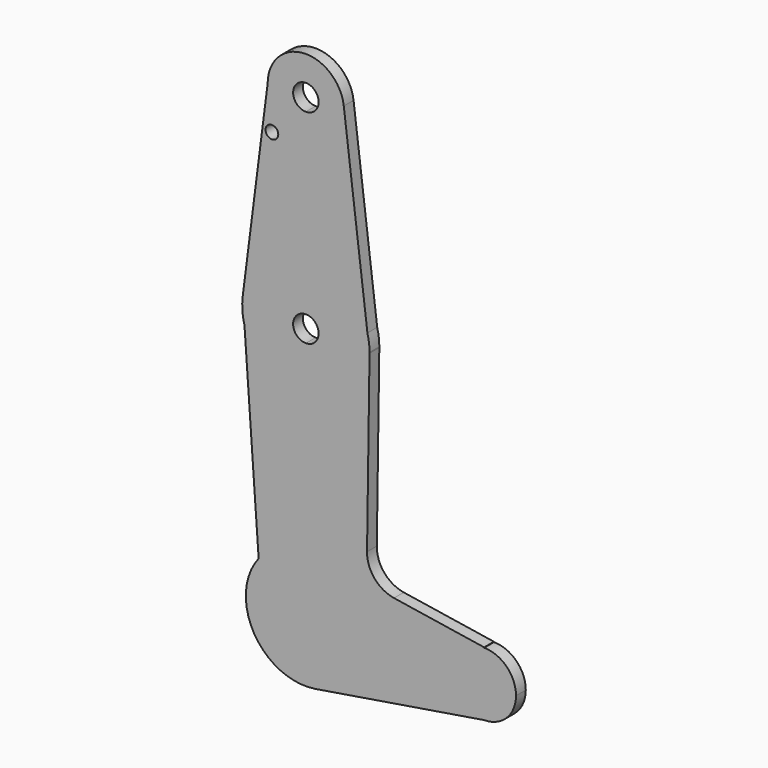
from build123d import *

# Parameters (mm, degrees)
F0_R     = 1.5875
F1_DEPTH = 3.048


with BuildPart() as f1:
    # F0 (on Front) → F1 (new body)
    with BuildSketch(Plane.XZ):
        with BuildLine():
            ThreePointArc((-11.7764620268, 9.2397838265), (-6.5479819224, 13.4604084549), (0, 14.968589213))
            Line((0, 14.968589213), (0, 47.625))
            ThreePointArc((0, 47.625), (-9.6265272558, 50.8767833738), (-15.3093214373, 59.2999640324))
            Line((-15.3093214373, 59.2999640324), (-11.7764620268, 9.2397838265))
        make_face()
        with BuildLine():
            Line((0, 47.625), (0, 14.968589213))
            ThreePointArc((0, 14.968589213), (10.5843909373, 10.5843909373), (14.968589213, 0))
            ThreePointArc((14.968589213, 0), (11.4021679923, -9.6978981281), (2.4023778267, -14.7745471608))
            Line((2.4023778267, -14.7745471608), (44.45, -7.9375))
            ThreePointArc((44.45, -7.9375), (36.5125, 0), (44.45, 7.9375))
            Line((44.45, 7.9375), (44.45, 8.0335266714))
            Line((44.45, 8.0335266714), (21.9713980672, 11.5406247648))
            ThreePointArc((21.9713980672, 11.5406247648), (17.1207306133, 14.2688892043), (15.2475696284, 19.5094683254))
            Line((15.2475696284, 19.5094683254), (15.8733771675, 63.2730147597))
            ThreePointArc((15.8733771675, 63.2730147597), (11.1447798164, 52.194713279), (0, 47.625))
        make_face()
        with BuildLine():
            ThreePointArc((14.968589213, 0), (10.5843909373, 10.5843909373), (0, 14.968589213))
            ThreePointArc((0, 14.968589213), (-6.5479819224, 13.4604084549), (-11.7764620268, 9.2397838265))
            ThreePointArc((-11.7764620268, 9.2397838265), (-12.8895456413, -7.6104057835), (2.4023778267, -14.7745471608))
            ThreePointArc((2.4023778267, -14.7745471608), (11.4021679923, -9.6978981281), (14.968589213, 0))
        make_face()
        with BuildLine():
            ThreePointArc((-15.3093214373, 59.2999640324), (-9.6265272558, 50.8767833738), (0, 47.625))
            Line((0, 47.625), (0, 60.325))
            ThreePointArc((0, 60.325), (-2.6067780419, 61.6874511758), (-2.9763228188, 64.6054987463))
            Line((-2.9763228188, 64.6054987463), (-15.7474569047, 65.5082893304))
            Line((-15.7474569047, 65.5082893304), (-15.3093214373, 59.2999640324))
        make_face()
        with BuildLine():
            Line((0, 60.325), (0, 47.625))
            ThreePointArc((0, 47.625), (11.1447798164, 52.194713279), (15.8733771675, 63.2730147597))
            Line((15.8733771675, 63.2730147597), (3.1022430816, 64.1758053438))
            ThreePointArc((3.1022430816, 64.1758053438), (3.1567583677, 63.839855275), (3.175, 63.5))
            ThreePointArc((3.175, 63.5), (2.2450640303, 61.2549359697), (0, 60.325))
        make_face()
        with BuildLine():
            ThreePointArc((-15.7474569047, 65.5082893304), (-15.835614797, 62.3824450786), (-15.3093214373, 59.2999640324))
            Line((-15.3093214373, 59.2999640324), (-15.7474569047, 65.5082893304))
        make_face()
        with BuildLine():
            Line((15.3451899877, 67.567034453), (15.8733771675, 63.2730147597))
            ThreePointArc((15.8733771675, 63.2730147597), (15.8745942867, 63.3865044793), (15.875, 63.5))
            ThreePointArc((15.875, 63.5), (15.7419902816, 65.5506991424), (15.3451899877, 67.567034453))
        make_face()
        with BuildLine():
            Line((3.1022430816, 64.1758053438), (15.8733771675, 63.2730147597))
            Line((15.8733771675, 63.2730147597), (15.3451899877, 67.567034453))
            ThreePointArc((15.3451899877, 67.567034453), (9.6812048077, 76.0813313473), (0, 79.375))
            Line((0, 79.375), (0, 66.675))
            ThreePointArc((0, 66.675), (1.9918512788, 65.972479218), (3.1022430816, 64.1758053438))
        make_face()
        with BuildLine():
            Line((-15.7474569047, 65.5082893304), (-2.9763228188, 64.6054987463))
            ThreePointArc((-2.9763228188, 64.6054987463), (-1.8125488242, 66.1067780419), (0, 66.675))
            Line((0, 66.675), (0, 79.375))
            ThreePointArc((0, 79.375), (-10.4912828548, 75.4142187767), (-15.7474569047, 65.5082893304))
        make_face()
        with BuildLine():
            Line((-9.525, 114.3), (-15.7474569047, 65.5082893304))
            ThreePointArc((-15.7474569047, 65.5082893304), (-10.4912828548, 75.4142187767), (0, 79.375))
            Line((0, 79.375), (0, 104.775))
            ThreePointArc((0, 104.775), (-6.7351920908, 107.5648079092), (-9.525, 114.3))
        make_face()
        with Locations((-8.4707995925, 103.9094014501)):
            Circle(F0_R, mode=Mode.SUBTRACT)
        with BuildLine():
            ThreePointArc((0, 79.375), (9.6812048077, 76.0813313473), (15.3451899877, 67.567034453))
            Line((15.3451899877, 67.567034453), (9.4537494483, 115.4628612853))
            ThreePointArc((9.4537494483, 115.4628612853), (9.5071706752, 114.8825210318), (9.525, 114.3))
            ThreePointArc((9.525, 114.3), (6.7351920908, 107.5648079092), (0, 104.775))
            Line((0, 104.775), (0, 79.375))
        make_face()
        with BuildLine():
            Line((44.45, 7.9375), (44.45, -7.9375))
            ThreePointArc((44.45, -7.9375), (50.0626600757, -5.6126600757), (52.3875, 0))
            ThreePointArc((52.3875, 0), (50.0626600757, 5.6126600757), (44.45, 7.9375))
        make_face()
        with BuildLine():
            ThreePointArc((44.45, 7.9375), (36.5125, 0), (44.45, -7.9375))
            Line((44.45, -7.9375), (44.45, 7.9375))
        make_face()
        with BuildLine():
            ThreePointArc((9.4537494483, 115.4628612853), (-0.5825210318, 123.8071706752), (-9.525, 114.3))
            ThreePointArc((-9.525, 114.3), (-6.7351920908, 107.5648079092), (0, 104.775))
            ThreePointArc((0, 104.775), (6.7351920908, 107.5648079092), (9.525, 114.3))
            ThreePointArc((9.525, 114.3), (9.5071706752, 114.8825210318), (9.4537494483, 115.4628612853))
        make_face()
        with BuildLine():
            ThreePointArc((3.175, 114.3), (2.2450640303, 112.0549359697), (0, 111.125))
            ThreePointArc((0, 111.125), (-2.2450640303, 116.5450640303), (3.175, 114.3))
        make_face(mode=Mode.SUBTRACT)
    extrude(amount=F1_DEPTH)


solid = f1.part
